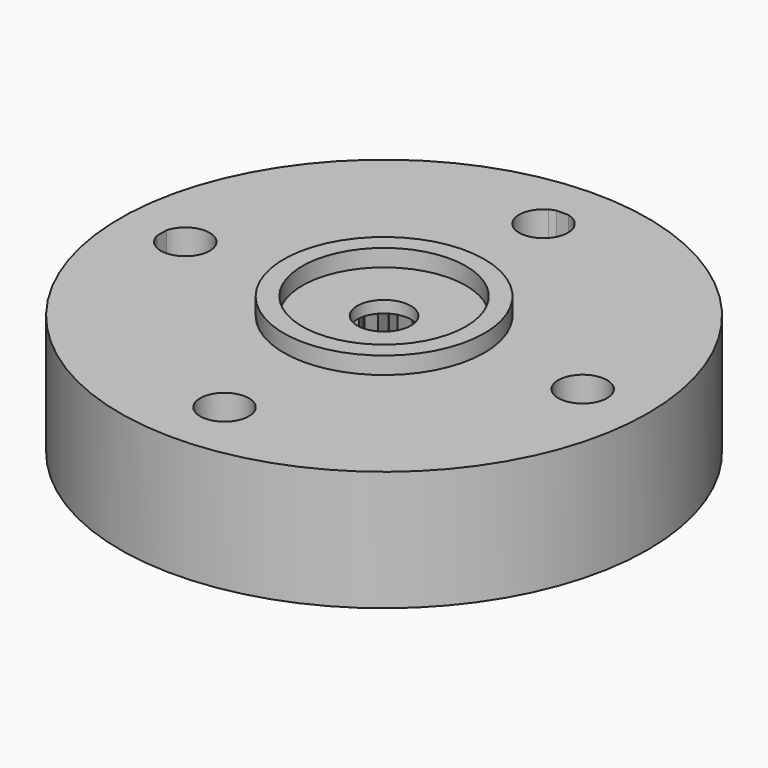
from build123d import *

# Parameters (mm, degrees)
F0_R      = 10
F1_DEPTH  = 4.55
F2_R      = 1.016
F3_DEPTH  = 3
F2_R_2    = 3.55
F4_DEPTH  = 0.3
F5_DEPTH  = 0.8
F6_DEPTH  = 25
F7_R      = 1.016
F8_DEPTH  = 3.3
F9_R      = 3.8
F9_R_2    = 3.1
F10_DEPTH = 0.65


with BuildPart() as f1:
    # F0 (on Top) → F1 (new body)
    with BuildSketch(Plane.XY):
        Circle(F0_R)
    extrude(amount=F1_DEPTH)

    # F2 (on face) → F3 (cut)
    with BuildSketch(Plane(origin=(0, 0, 0), x_dir=(1, 0, 0), z_dir=(0, 0, -1))):
        with BuildLine():
            ThreePointArc((2.3580349863, -8.1143188872), (5.9773278579, -5.9727758771), (8.1161129568, -2.3518525618))
            ThreePointArc((8.1161129568, -2.3518525618), (6.2185278181, -2.0429771017), (5.1421183412, -0.45))
            Line((5.1421183412, -0.45), (3.9242833741, -0.45))
            ThreePointArc((3.9242833741, -0.45), (2.7929329349, -2.7932106295), (0.4496098351, -3.9243280949))
            Line((0.4496098351, -3.9243280949), (0.4496098351, -5.1671183412))
            ThreePointArc((0.4496098351, -5.1671183412), (1.8666763846, -6.0025222134), (2.4246098351, -7.55))
            ThreePointArc((2.4246098351, -7.55), (2.4079086114, -7.8341161809), (2.3580349863, -8.1143188872))
        make_face()
        with BuildLine():
            ThreePointArc((-8.1064342847, -2.3849996201), (-5.9654206874, -5.9846684137), (-2.3588736286, -8.1140751293))
            ThreePointArc((-2.3588736286, -8.1140751293), (-2.0358344454, -6.2318226293), (-0.4503901649, -5.1671183412))
            Line((-0.4503901649, -5.1671183412), (-0.4503901649, -3.924238614))
            ThreePointArc((-0.4503901649, -3.924238614), (-2.7844362216, -2.8016807327), (-3.9213831111, -0.4746098351))
            Line((-3.9213831111, -0.4746098351), (-5.167508506, -0.4746098351))
            ThreePointArc((-5.167508506, -0.4746098351), (-6.2287506032, -2.0578077765), (-8.1064342847, -2.3849996201))
        make_face()
        with BuildLine():
            ThreePointArc((8.3331614938, -0.45), (8.420314018, -0.2324603388), (8.45, 0))
            ThreePointArc((8.45, 0), (8.420314018, 0.2324603388), (8.3331614938, 0.45))
            ThreePointArc((8.3331614938, 0.45), (6.6, 0), (8.3331614938, -0.45))
        make_face()
        with BuildLine():
            ThreePointArc((-0.2263892397, -8.4469667877), (-0.0004366746, -8.4499999887), (0.2255162027, -8.446990141))
            ThreePointArc((0.2255162027, -8.446990141), (0.3404690239, -8.4099069795), (0.4496098351, -8.3581614938))
            ThreePointArc((0.4496098351, -8.3581614938), (0.7970667305, -8.0187083315), (0.9246098351, -7.55))
            ThreePointArc((0.9246098351, -7.55), (-0.4690984964, -6.7525431046), (-0.4503901649, -8.3581614938))
            ThreePointArc((-0.4503901649, -8.3581614938), (-0.341293791, -8.4098893636), (-0.2263892397, -8.4469667877))
        make_face()
        with BuildLine():
            ThreePointArc((-8.3585516586, 0.4253901649), (-8.4104821521, 0.3157822528), (-8.4476251746, 0.2003220154))
            ThreePointArc((-8.4476251746, 0.2003220154), (-8.4499551149, -0.0275418883), (-8.446139835, -0.2553857621))
            ThreePointArc((-8.446139835, -0.2553857621), (-8.4093681111, -0.3678034945), (-8.3585516586, -0.4746098351))
            ThreePointArc((-8.3585516586, -0.4746098351), (-7.317929826, -0.9199238531), (-6.6253901649, -0.0246098351))
            ThreePointArc((-6.6253901649, -0.0246098351), (-7.317929826, 0.8707041829), (-8.3585516586, 0.4253901649))
        make_face()
        with BuildLine():
            ThreePointArc((-0.45, 5.1379228876), (-2.0587809245, 6.2046478921), (-2.3789187258, 8.1082208712))
            ThreePointArc((-2.3789187258, 8.1082208712), (-5.9922617211, 5.9577931708), (-8.1218092741, 2.3321050822))
            ThreePointArc((-8.1218092741, 2.3321050822), (-6.2353846188, 2.0128850517), (-5.167508506, 0.4253901649))
            Line((-5.167508506, 0.4253901649), (-3.9270272736, 0.4253901649))
            ThreePointArc((-3.9270272736, 0.4253901649), (-2.8018128704, 2.7843032592), (-0.45, 3.9242833741))
            Line((-0.45, 3.9242833741), (-0.45, 5.1379228876))
        make_face()
        with BuildLine():
            ThreePointArc((5.1421183412, 0.45), (6.2185278181, 2.0429771017), (8.1161129568, 2.3518525618))
            ThreePointArc((8.1161129568, 2.3518525618), (5.9651624063, 5.9849258531), (2.3249943837, 8.1238476793))
            ThreePointArc((2.3249943837, 8.1238476793), (2.3811755319, 7.8269599076), (2.4, 7.5253901649))
            ThreePointArc((2.4, 7.5253901649), (1.8501666593, 5.9877377334), (0.45, 5.1473657748))
            Line((0.45, 5.1473657748), (0.45, 3.9242833741))
            ThreePointArc((0.45, 3.9242833741), (2.7930717857, 2.7930717857), (3.9242833741, 0.45))
            Line((3.9242833741, 0.45), (5.1421183412, 0.45))
        make_face()
        Circle(F2_R)
        with BuildLine():
            ThreePointArc((0.45, 8.3191155582), (0.2343284139, 8.4132943116), (0.0018707224, 8.4499997929))
            ThreePointArc((0.0018707224, 8.4499997929), (-0.0280714793, 8.4499533722), (-0.0580133286, 8.4498008529))
            ThreePointArc((-0.0580133286, 8.4498008529), (-0.2597070358, 8.420117837), (-0.45, 8.3469740011))
            ThreePointArc((-0.45, 8.3469740011), (-0.5058846015, 6.7352161334), (0.9, 7.5253901649))
            ThreePointArc((0.9, 7.5253901649), (0.779673847, 7.9815973546), (0.45, 8.3191155582))
        make_face()
    extrude(amount=-F3_DEPTH, mode=Mode.SUBTRACT)

    # F2 (on face) → F4 (cut)
    with BuildSketch(Plane(origin=(0, 0, 0), x_dir=(1, 0, 0), z_dir=(0, 0, -1))):
        with BuildLine():
            Line((0.45, 3.9242833741), (0.45, 5.1473657748))
            ThreePointArc((0.45, 5.1473657748), (0.0004419345, 5.1005236308), (-0.45, 5.1379228876))
            Line((-0.45, 5.1379228876), (-0.45, 3.9242833741))
            ThreePointArc((-0.45, 3.9242833741), (0, 3.95), (0.45, 3.9242833741))
        make_face()
        with BuildLine():
            ThreePointArc((5.1421183412, -0.45), (5.1, 0), (5.1421183412, 0.45))
            Line((5.1421183412, 0.45), (3.9242833741, 0.45))
            ThreePointArc((3.9242833741, 0.45), (3.9435656028, 0.2253671143), (3.95, 0))
            ThreePointArc((3.95, 0), (3.9435656028, -0.2253671143), (3.9242833741, -0.45))
            Line((3.9242833741, -0.45), (5.1421183412, -0.45))
        make_face()
        with BuildLine():
            Line((-0.4503901649, -3.924238614), (-0.4503901649, -5.1671183412))
            ThreePointArc((-0.4503901649, -5.1671183412), (-0.0003901649, -5.125), (0.4496098351, -5.1671183412))
            Line((0.4496098351, -5.1671183412), (0.4496098351, -3.9243280949))
            ThreePointArc((0.4496098351, -3.9243280949), (-0.0003927217, -3.9499999805), (-0.4503901649, -3.924238614))
        make_face()
        with BuildLine():
            Line((-3.9270272736, 0.4253901649), (-5.167508506, 0.4253901649))
            ThreePointArc((-5.167508506, 0.4253901649), (-5.1359427102, 0.2013735463), (-5.1253901649, -0.0246098351))
            ThreePointArc((-5.1253901649, -0.0246098351), (-5.1359427102, -0.2505932165), (-5.167508506, -0.4746098351))
            Line((-5.167508506, -0.4746098351), (-3.9213831111, -0.4746098351))
            ThreePointArc((-3.9213831111, -0.4746098351), (-3.9499223273, -0.0247711148), (-3.9270272736, 0.4253901649))
        make_face()
        with BuildLine():
            ThreePointArc((3.95, 0), (3.9435656028, 0.2253671143), (3.9242833741, 0.45))
            ThreePointArc((3.9242833741, 0.45), (2.7930717857, 2.7930717857), (0.45, 3.9242833741))
            ThreePointArc((0.45, 3.9242833741), (0, 3.95), (-0.45, 3.9242833741))
            ThreePointArc((-0.45, 3.9242833741), (-2.8018128704, 2.7843032592), (-3.9270272736, 0.4253901649))
            ThreePointArc((-3.9270272736, 0.4253901649), (-3.9499223273, -0.0247711148), (-3.9213831111, -0.4746098351))
            ThreePointArc((-3.9213831111, -0.4746098351), (-2.7844362216, -2.8016807327), (-0.4503901649, -3.924238614))
            ThreePointArc((-0.4503901649, -3.924238614), (-0.0003927217, -3.9499999805), (0.4496098351, -3.9243280949))
            ThreePointArc((0.4496098351, -3.9243280949), (2.7929329349, -2.7932106295), (3.9242833741, -0.45))
            ThreePointArc((3.9242833741, -0.45), (3.9435656028, -0.2253671143), (3.95, 0))
        make_face()
        Circle(F2_R_2, mode=Mode.SUBTRACT)
    extrude(amount=-F4_DEPTH, mode=Mode.SUBTRACT)

    # F2 (on face) → F5 (cut)
    with BuildSketch(Plane(origin=(0, 0, 0), x_dir=(1, 0, 0), z_dir=(0, 0, -1))):
        Circle(F2_R_2)
        Circle(F2_R, mode=Mode.SUBTRACT)
    extrude(amount=-F5_DEPTH, mode=Mode.SUBTRACT)

    # F6 (cut): faces of the model
    f6_faces = [f1.faces().sort_by_distance(p)[0] for p in [
        (-0.0249999803, -7.5253842356, 3),
        (7.525, 0, 3),
        (-0.0003900324, 7.5474359037, 3),
        (0, 0, 3),
        (-7.5477604206, 0.0246012637, 3),
    ]]
    extrude(f6_faces, amount=-F6_DEPTH, mode=Mode.SUBTRACT)

    # F7 (on face) → F8 (cut)
    with BuildSketch(Plane(origin=(0, 0, 0.8), x_dir=(1, 0, 0), z_dir=(0, 0, -1))):
        with BuildLine():
            Line((2.2790361374, -0.1433848002), (2.9158871989, 0.1727508122))
            ThreePointArc((2.9158871989, 0.1727508122), (2.9152360737, 0.1834111075), (2.9145459753, 0.1940689509))
            Line((2.9145459753, 0.1940689509), (2.2430943761, 0.4278931368))
            Line((2.2430943761, 0.4278931368), (2.7813178607, 0.8924751862))
            ThreePointArc((2.7813178607, 0.8924751862), (2.7780360841, 0.9026386406), (2.7747171685, 0.9127900277))
            Line((2.7747171685, 0.9127900277), (2.0662107456, 0.9722849743))
            Line((2.0662107456, 0.9722849743), (2.4719880922, 1.556122062))
            ThreePointArc((2.4719880922, 1.556122062), (2.4662818704, 1.5651500681), (2.4605426773, 1.5741571501))
            Line((2.4605426773, 1.5741571501), (1.759499495, 1.4555845711))
            Line((1.759499495, 1.4555845711), (2.0073342206, 2.1219920657))
            ThreePointArc((2.0073342206, 2.1219920657), (1.9995620964, 2.1293173607), (1.9917632405, 2.1366141893))
            Line((1.9917632405, 2.1366141893), (1.3422324201, 1.8474244361))
            Line((1.3422324201, 1.8474244361), (1.4165521575, 2.5545295037))
            ThreePointArc((1.4165521575, 2.5545295037), (1.4072024821, 2.5596918124), (1.397833994, 2.5648199011))
            Line((1.397833994, 2.5648199011), (0.8406279459, 2.1231838293))
            Line((0.8406279459, 2.1231838293), (0.7367629126, 2.8265564581))
            ThreePointArc((0.7367629126, 2.8265564581), (0.7264231604, 2.8292314137), (0.7160736969, 2.8318685458))
            Line((0.7160736969, 2.8318685458), (0.2862037262, 2.2655357741))
            Line((0.2862037262, 2.2655357741), (0.0106801442, 2.9209804749))
            ThreePointArc((0.0106801442, 2.9209804749), (0, 2.921), (-0.0106801442, 2.9209804749))
            Line((-0.0106801442, 2.9209804749), (-0.2862037262, 2.2655357741))
            Line((-0.2862037262, 2.2655357741), (-0.7160736969, 2.8318685458))
            ThreePointArc((-0.7160736969, 2.8318685458), (-0.7264231604, 2.8292314137), (-0.7367629126, 2.8265564581))
            Line((-0.7367629126, 2.8265564581), (-0.8406279459, 2.1231838293))
            Line((-0.8406279459, 2.1231838293), (-1.397833994, 2.5648199011))
            ThreePointArc((-1.397833994, 2.5648199011), (-1.4072024821, 2.5596918124), (-1.4165521575, 2.5545295037))
            Line((-1.4165521575, 2.5545295037), (-1.3422324201, 1.8474244361))
            Line((-1.3422324201, 1.8474244361), (-1.9917632405, 2.1366141893))
            ThreePointArc((-1.9917632405, 2.1366141893), (-1.9995620964, 2.1293173607), (-2.0073342206, 2.1219920657))
            Line((-2.0073342206, 2.1219920657), (-1.759499495, 1.4555845711))
            Line((-1.759499495, 1.4555845711), (-2.4605426773, 1.5741571501))
            ThreePointArc((-2.4605426773, 1.5741571501), (-2.4662818704, 1.5651500681), (-2.4719880922, 1.556122062))
            Line((-2.4719880922, 1.556122062), (-2.0662107456, 0.9722849743))
            Line((-2.0662107456, 0.9722849743), (-2.7747171685, 0.9127900277))
            ThreePointArc((-2.7747171685, 0.9127900277), (-2.7780360841, 0.9026386406), (-2.7813178607, 0.8924751862))
            Line((-2.7813178607, 0.8924751862), (-2.2430943761, 0.4278931368))
            Line((-2.2430943761, 0.4278931368), (-2.9145459753, 0.1940689509))
            ThreePointArc((-2.9145459753, 0.1940689509), (-2.9152360737, 0.1834111075), (-2.9158871989, 0.1727508122))
            Line((-2.9158871989, 0.1727508122), (-2.2790361374, -0.1433848002))
            Line((-2.2790361374, -0.1433848002), (-2.8712431395, -0.5368461918))
            ThreePointArc((-2.8712431395, -0.5368461918), (-2.8692610594, -0.5473408199), (-2.8672406206, -0.5578281308))
            Line((-2.8672406206, -0.5578281308), (-2.1717776765, -0.7056533429))
            Line((-2.1717776765, -0.7056533429), (-2.6475295376, -1.2340293138))
            ThreePointArc((-2.6475295376, -1.2340293138), (-2.6429998203, -1.2437013107), (-2.6384347691, -1.2533566807))
            Line((-2.6384347691, -1.2533566807), (-1.9280584369, -1.2235830909))
            Line((-1.9280584369, -1.2235830909), (-2.2574619179, -1.8536738357))
            ThreePointArc((-2.2574619179, -1.8536738357), (-2.2506691821, -1.8619154741), (-2.2438463576, -1.8701322208))
            Line((-2.2438463576, -1.8701322208), (-1.5631921949, -1.6646306132))
            Line((-1.5631921949, -1.6646306132), (-1.7255496635, -2.3568452131))
            ThreePointArc((-1.7255496635, -2.3568452131), (-1.7169207219, -2.3631386406), (-1.7082688272, -2.3694004757))
            Line((-1.7082688272, -2.3694004757), (-1.1001048382, -2.001083272))
            Line((-1.1001048382, -2.001083272), (-1.0852147777, -2.711927338))
            ThreePointArc((-1.0852147777, -2.711927338), (-1.0752918184, -2.7158771153), (-1.0653544837, -2.7197905846))
            Line((-1.0653544837, -2.7197905846), (-0.5678938486, -2.2118005094))
            Line((-0.5678938486, -2.2118005094), (-0.3766918562, -2.8966090944))
            ThreePointArc((-0.3766918562, -2.8966090944), (-0.3660983752, -2.8979670425), (-0.3555, -2.8992862484))
            Line((-0.3555, -2.8992862484), (-0.1777500027, -2.591414222))
            Line((-0.1777500027, -2.591414222), (0, -2.2835421863))
            Line((0, -2.2835421863), (0.1777500027, -2.591414222))
            Line((0.1777500027, -2.591414222), (0.3555, -2.8992862484))
            ThreePointArc((0.3555, -2.8992862484), (0.3660983752, -2.8979670425), (0.3766918562, -2.8966090944))
            Line((0.3766918562, -2.8966090944), (0.5678938486, -2.2118005094))
            Line((0.5678938486, -2.2118005094), (1.0653544837, -2.7197905846))
            ThreePointArc((1.0653544837, -2.7197905846), (1.0752918184, -2.7158771153), (1.0852147777, -2.711927338))
            Line((1.0852147777, -2.711927338), (1.1001048382, -2.001083272))
            Line((1.1001048382, -2.001083272), (1.7082688272, -2.3694004757))
            ThreePointArc((1.7082688272, -2.3694004757), (1.7169207219, -2.3631386406), (1.7255496635, -2.3568452131))
            Line((1.7255496635, -2.3568452131), (1.5631921949, -1.6646306132))
            Line((1.5631921949, -1.6646306132), (2.2438463576, -1.8701322208))
            ThreePointArc((2.2438463576, -1.8701322208), (2.2506691821, -1.8619154741), (2.2574619179, -1.8536738357))
            Line((2.2574619179, -1.8536738357), (1.9280584369, -1.2235830909))
            Line((1.9280584369, -1.2235830909), (2.6384347691, -1.2533566807))
            ThreePointArc((2.6384347691, -1.2533566807), (2.6429998203, -1.2437013107), (2.6475295376, -1.2340293138))
            Line((2.6475295376, -1.2340293138), (2.1717776765, -0.7056533429))
            Line((2.1717776765, -0.7056533429), (2.8672406206, -0.5578281308))
            ThreePointArc((2.8672406206, -0.5578281308), (2.8692610594, -0.5473408199), (2.8712431395, -0.5368461918))
            Line((2.8712431395, -0.5368461918), (2.2790361374, -0.1433848002))
        make_face()
        Circle(F7_R, mode=Mode.SUBTRACT)
    extrude(amount=-F8_DEPTH, mode=Mode.SUBTRACT)

    # F9 (on face) → F10 (join)
    with BuildSketch(Plane.XY.offset(4.55)):
        Circle(F9_R)
        Circle(F9_R_2, mode=Mode.SUBTRACT)
    extrude(amount=F10_DEPTH)


solid = f1.part
